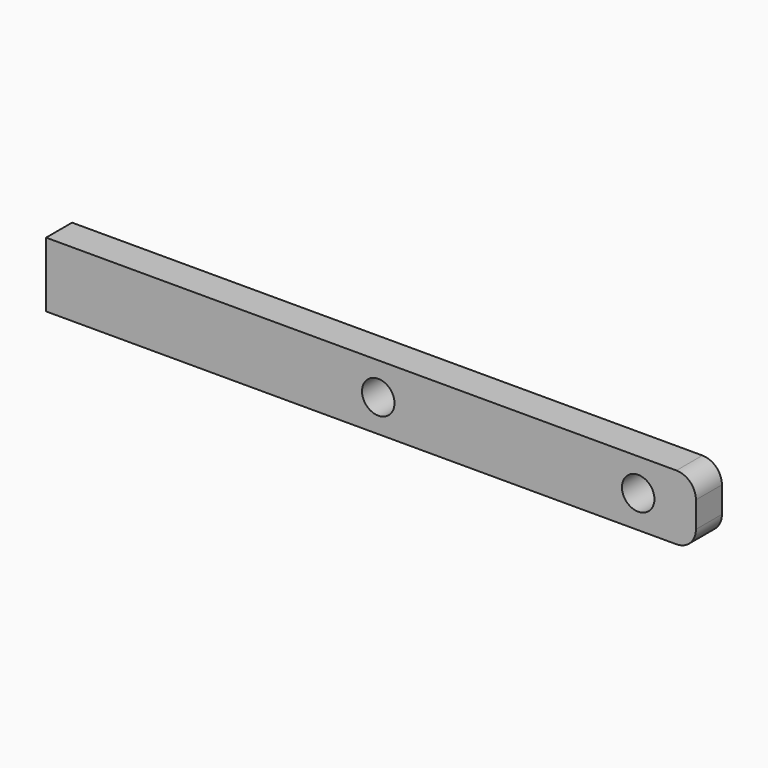
from build123d import *

# Parameters (mm, degrees)
F0_R     = 2.5
F1_DEPTH = 5


with BuildPart() as f1:
    # F0 (on Front) → F1 (new body)
    with BuildSketch(Plane.XZ):
        with BuildLine():
            Line((0, 10), (0, 0))
            Line((0, 0), (97, 0))
            ThreePointArc((97, 0), (99.12132, 0.87868), (100, 3))
            Line((100, 3), (100, 7))
            ThreePointArc((100, 7), (99.12132, 9.12132), (97, 10))
            Line((97, 10), (0, 10))
        make_face()
        with Locations((51.116831, 5)):
            Circle(F0_R, mode=Mode.SUBTRACT)
        with Locations((91.116831, 5)):
            Circle(F0_R, mode=Mode.SUBTRACT)
    extrude(amount=F1_DEPTH)


solid = f1.part
